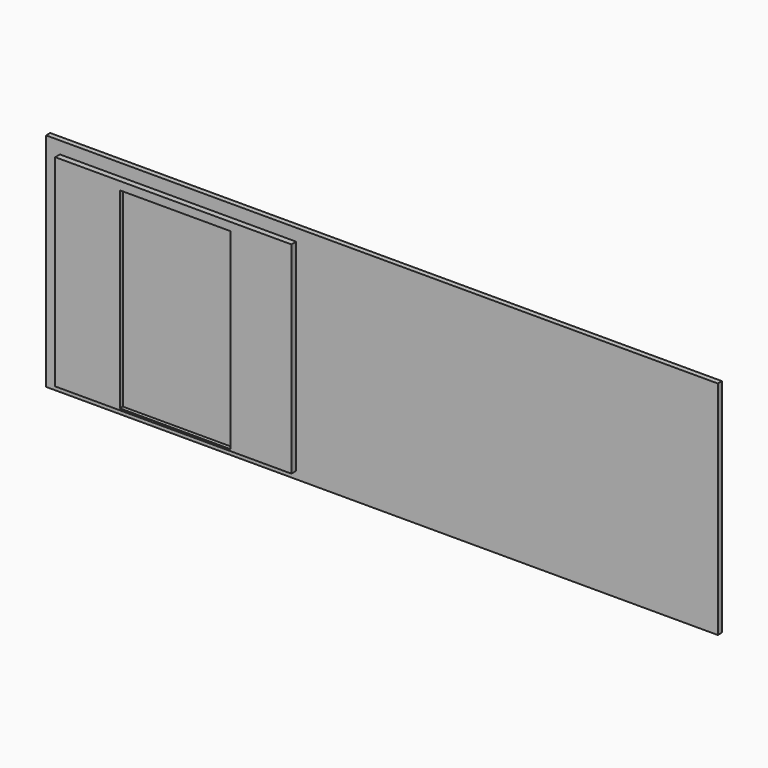
from build123d import *

# Parameters (mm, degrees)
F0_W     = 9100
F0_H     = 3000
F0_W_2   = 3200
F0_H_2   = 2734.136701
F1_DEPTH = 70
F0_W_3   = 1500
F0_H_3   = 2600
F2_DEPTH = 150
F3_DEPTH = 100
F4_W     = 1425.566227
F4_H     = 2523.555457
F4_W_2   = 788.61104
F4_H_2   = 2353.700698
F5_DEPTH = 50


with BuildPart() as f1:
    # F0 (on Front) → F1 (new body)
    with BuildSketch(Plane.XZ):
        with Locations((2172.895898, 654.79085)):
            Rectangle(F0_W, F0_H)
        with Locations((-589.442599, 621.29873)):
            Rectangle(F0_W_2, F0_H_2, mode=Mode.SUBTRACT)
    extrude(amount=F1_DEPTH)


with BuildPart() as f2:
    # F0 (on Front) → F2 (new body)
    with BuildSketch(Plane.XZ):
        with Locations((-589.442599, 621.29873)):
            Rectangle(F0_W_2, F0_H_2)
        with Locations((-563.738128, 578.109205)):
            Rectangle(F0_W_3, F0_H_3, mode=Mode.SUBTRACT)
    extrude(amount=F2_DEPTH)


with BuildPart() as f3:
    # F0 (on Front) → F3 (new body)
    with BuildSketch(Plane.XZ):
        with Locations((-563.738128, 578.109205)):
            Rectangle(F0_W_3, F0_H_3)
    extrude(amount=F3_DEPTH)


with BuildPart() as f5:
    # F4 (on Front) → F5 (new body)
    with BuildSketch(Plane.XZ):
        with Locations((-568.752632, 584.810168)):
            Rectangle(F4_W, F4_H)
        Polygon((-1245.261669, 806.599259), (-1245.261669, 1802.586555), (-982.094228, 1802.586555), (-982.094228, 806.599259), (-982.094228, 478.652209), (-982.094228, -622.602105), (-1245.261669, -622.602105), (-1245.261669, 478.652209), align=None, mode=Mode.SUBTRACT)
        with Locations((-547.520764, 621.207565)):
            Rectangle(F4_W_2, F4_H_2, mode=Mode.SUBTRACT)
        Polygon((-111.617535, 1798.057914), (107.013837, 1798.057914), (107.013837, 851.135254), (107.013837, 470.554739), (107.013837, -618.55334), (-111.617535, -618.55334), (-111.617535, 470.554739), (-111.617535, 851.135254), align=None, mode=Mode.SUBTRACT)
    extrude(amount=F5_DEPTH)


solid = Compound([f1.part, f2.part, f3.part, f5.part])
